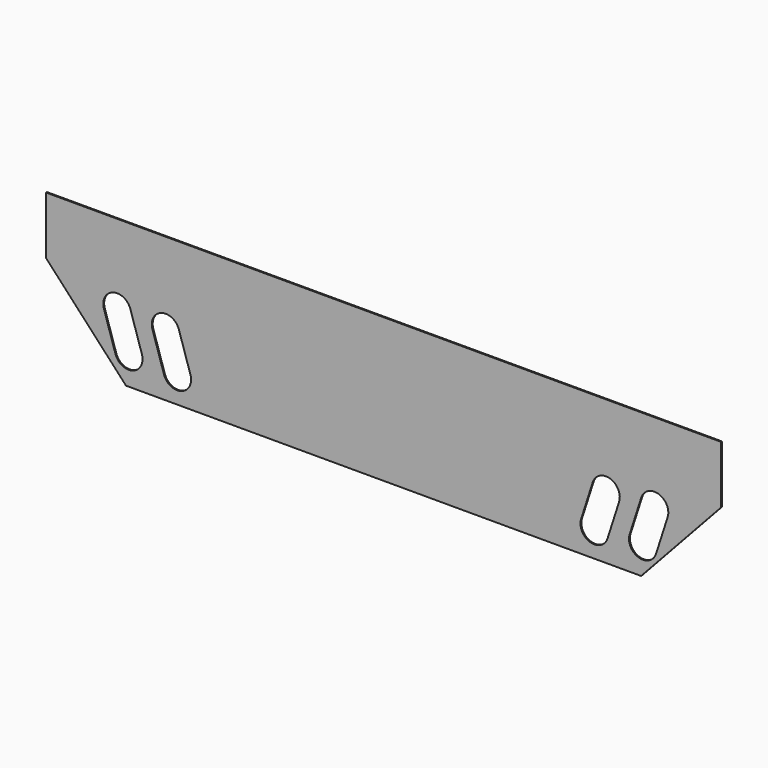
from build123d import *

# Parameters (mm, degrees)
F1_DEPTH = 3.175
F3_DEPTH = 25.4


with BuildPart() as f1:
    # F0 (on Front) → F1 (new body)
    with BuildSketch(Plane.XZ):
        Polygon((-539.955654, -123.412341), (526.844346, -123.412341), (730.044346, -123.412341), (958.644434, 123.412341), (958.644434, 288.512341), (-971.755566, 288.512341), (-971.755566, 123.412341), (-743.155654, -123.412341), align=None)
    extrude(amount=F1_DEPTH)

    # F2 (on face) → F3 (cut)
    with BuildSketch(Plane.XZ.offset(3.175)):
        with BuildLine():
            ThreePointArc((-730.772129, 73.606078), (-780.694159, 99.25732), (-806.345402, 49.335291))
            Line((-806.345402, 49.335291), (-773.337132, -53.44436))
            ThreePointArc((-773.337132, -53.44436), (-723.415102, -79.095603), (-697.763859, -29.173573))
            Line((-697.763859, -29.173573), (-730.772129, 73.606078))
        make_face()
        with BuildLine():
            ThreePointArc((-591.971423, 67.138096), (-641.893453, 92.789339), (-667.544695, 42.867309))
            Line((-667.544695, 42.867309), (-634.536425, -59.912341))
            ThreePointArc((-634.536425, -59.912341), (-584.614395, -85.563584), (-558.963153, -35.641555))
            Line((-558.963153, -35.641555), (-591.971423, 67.138096))
        make_face()
        with BuildLine():
            Line((634.125294, -59.912341), (667.133564, 42.867309))
            ThreePointArc((667.133564, 42.867309), (641.482321, 92.789339), (591.560291, 67.138096))
            Line((591.560291, 67.138096), (558.552021, -35.641555))
            ThreePointArc((558.552021, -35.641555), (584.203264, -85.563584), (634.125294, -59.912341))
        make_face()
        with BuildLine():
            Line((772.926, -53.44436), (805.93427, 49.335291))
            ThreePointArc((805.93427, 49.335291), (780.283027, 99.25732), (730.360998, 73.606078))
            Line((730.360998, 73.606078), (697.352727, -29.173573))
            ThreePointArc((697.352727, -29.173573), (723.00397, -79.095603), (772.926, -53.44436))
        make_face()
    extrude(amount=-F3_DEPTH, mode=Mode.SUBTRACT)


solid = f1.part
